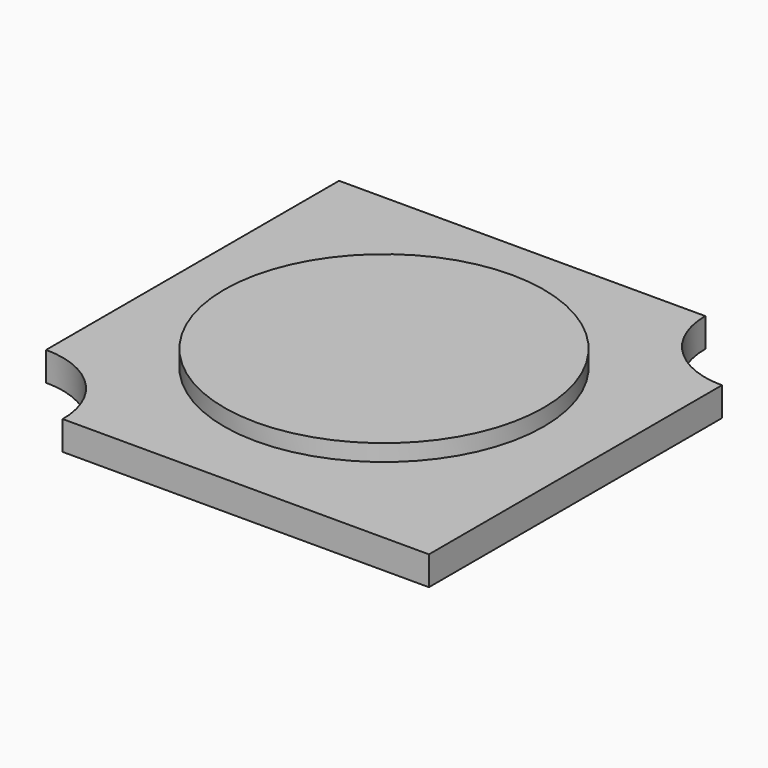
from build123d import *

# Parameters (mm, degrees)
F1_DEPTH = 0.87
F2_R     = 4.8
F3_DEPTH = 0.5


with BuildPart() as f1:
    # F0 (on Top) → F1 (new body)
    with BuildSketch(Plane.XY):
        with BuildLine():
            Line((-4.25, -6.75), (6.75, -6.75))
            Line((6.75, -6.75), (6.75, 4.25))
            ThreePointArc((6.75, 4.25), (4.982233, 4.982233), (4.25, 6.75))
            Line((4.25, 6.75), (-6.75, 6.75))
            Line((-6.75, 6.75), (-6.75, -4.25))
            ThreePointArc((-6.75, -4.25), (-4.982233, -4.982233), (-4.25, -6.75))
        make_face()
    extrude(amount=F1_DEPTH)

    # F2 (on face) → F3 (join)
    with BuildSketch(Plane.XY.offset(0.87)):
        Circle(F2_R)
    extrude(amount=F3_DEPTH)


solid = f1.part
